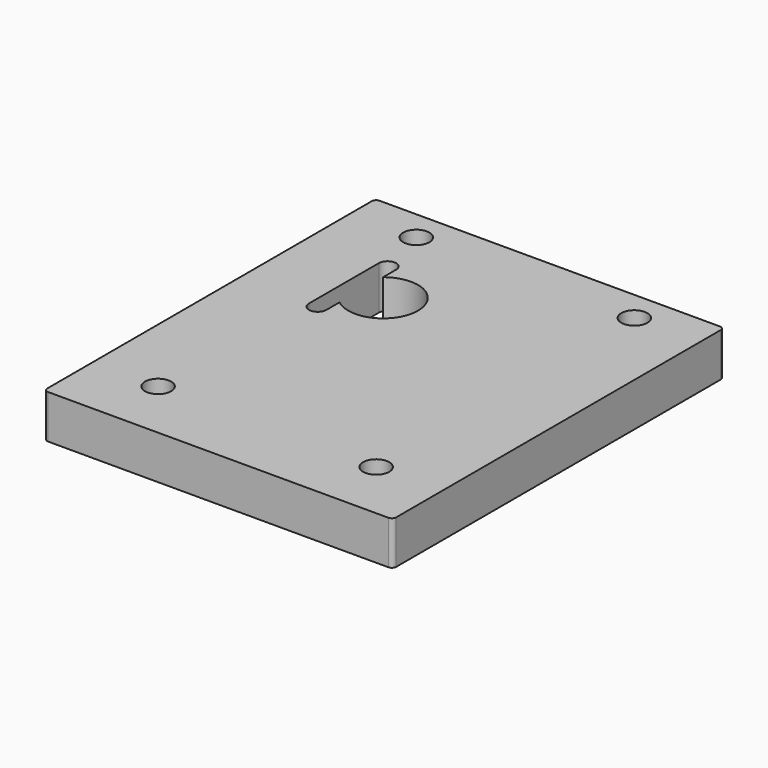
from build123d import *

# Parameters (mm, degrees)
SKETCH_W    = 80
SKETCH_H    = 95
SKETCH_R    = 3
PAD_DEPTH   = 10
FILLET_R    = 1
FILLET001_R = 1


with BuildPart() as part:
    # Sketch → Pad (new body)
    with BuildSketch(Plane.XY):
        with Locations((15, -18.5)):
            Rectangle(SKETCH_W, SKETCH_H)
        with Locations((-10, -52)):
            Circle(SKETCH_R, mode=Mode.SUBTRACT)
        with Locations((40, -52)):
            Circle(SKETCH_R, mode=Mode.SUBTRACT)
        with Locations((40, 22)):
            Circle(SKETCH_R, mode=Mode.SUBTRACT)
        with Locations((-10, 22)):
            Circle(SKETCH_R, mode=Mode.SUBTRACT)
        with BuildLine():
            ThreePointArc((-5, -6.244998), (8, 0), (-5, 6.244998))
            Line((-5, 6.244998), (-5, 10))
            ThreePointArc((-5, 10), (-7, 12), (-9, 10))
            Line((-9, 10), (-9, -10))
            ThreePointArc((-9, -10), (-7, -12), (-5, -10))
            Line((-5, -6.244998), (-5, -10))
        make_face(mode=Mode.SUBTRACT)
    extrude(amount=PAD_DEPTH)

    # Fillet
    fillet_edges = [part.edges().sort_by_distance(p)[0] for p in [
        (-25, -66, 5),
        (-25, 29, 5),
    ]]
    fillet(fillet_edges, radius=FILLET_R)

    # Fillet001
    fillet001_edges = [part.edges().sort_by_distance(p)[0] for p in [
        (55, -66, 5),
        (55, 29, 5),
    ]]
    fillet(fillet001_edges, radius=FILLET001_R)


solid = part.part
